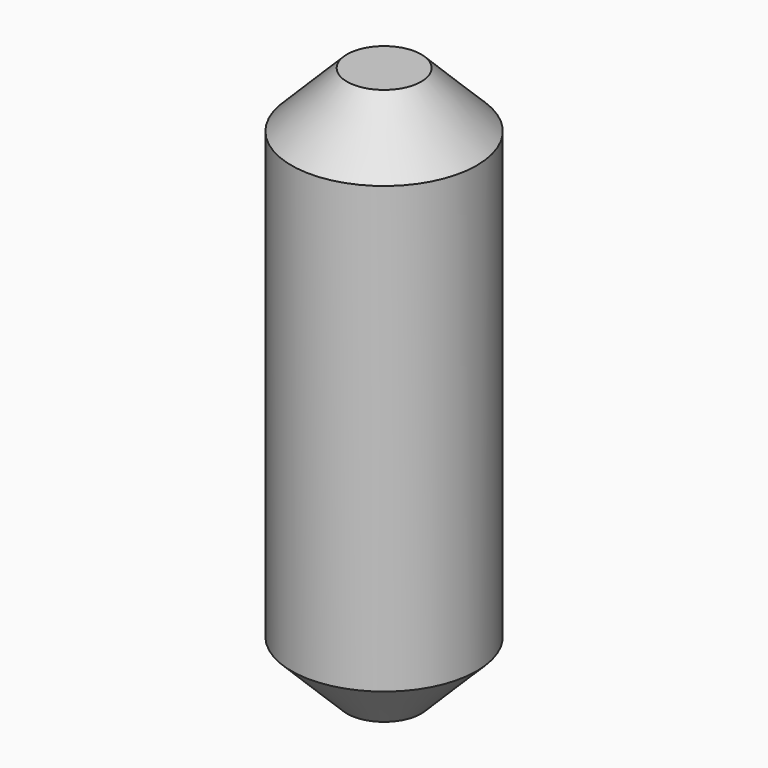
from build123d import *

# Parameters (mm, degrees)
F0_R     = 12.7
F1_DEPTH = 76.2
F2_SIZE  = 7.62
F3_SIZE  = 7.62


with BuildPart() as f1:
    # F0 (on Top) → F1 (new body)
    with BuildSketch(Plane.XY):
        with Locations((-52.293554, 54.482132)):
            Circle(F0_R)
    extrude(amount=F1_DEPTH)

    # F2
    f2_edges = [f1.edges().sort_by_distance(p)[0] for p in [
        (-64.993554, 54.482132, 76.2),
    ]]
    chamfer(f2_edges, length=F2_SIZE)

    # F3
    f3_edges = [f1.edges().sort_by_distance(p)[0] for p in [
        (-64.993554, 54.482132, 0),
    ]]
    chamfer(f3_edges, length=F3_SIZE)


solid = f1.part
